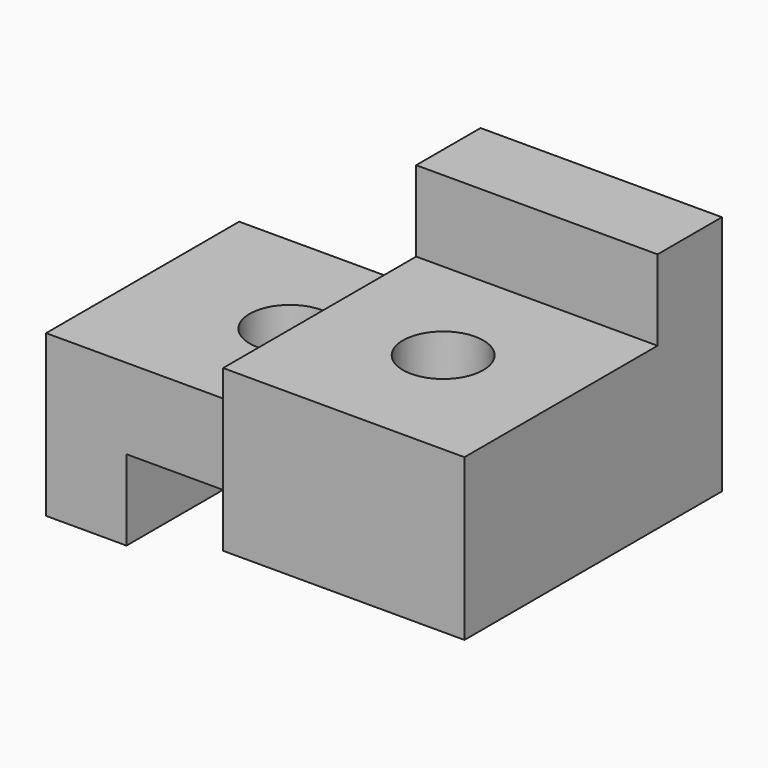
from build123d import *

# Parameters (mm, degrees)
F0_W      = 19.05
F0_H      = 19.05
F1_DEPTH  = 6.35
F2_W      = 19.05
F2_H      = 12.7
F3_DEPTH  = 25.4
F4_W      = 19.05
F4_H      = 6.35
F5_DEPTH  = 19.05
F6_W      = 6.35
F6_H      = 6.35
F7_DEPTH  = 19.05
F8_R      = 3.175
F9_DEPTH  = 12.7
F10_R     = 3.175
F11_DEPTH = 6.35


with BuildPart() as f1:
    # F0 (on Front) → F1 (new body)
    with BuildSketch(Plane.XZ):
        with Locations((9.525, 9.525)):
            Rectangle(F0_W, F0_H)
    extrude(amount=F1_DEPTH)

    # F2 (on Front) → F3 (join)
    with BuildSketch(Plane.XZ):
        with Locations((9.525, 6.35)):
            Rectangle(F2_W, F2_H)
    extrude(amount=F3_DEPTH)

    # F4 (on Front) → F5 (join)
    with BuildSketch(Plane.XZ):
        with Locations((-9.525, 3.175)):
            Rectangle(F4_W, F4_H)
    extrude(amount=F5_DEPTH)

    # F6 (on Front) → F7 (join)
    with BuildSketch(Plane.XZ):
        with Locations((-15.875, -3.175)):
            Rectangle(F6_W, F6_H)
    extrude(amount=F7_DEPTH)

    # F8 (on Top) → F9 (cut)
    with BuildSketch(Plane.XY):
        with Locations((9.523944, -15.594214)):
            Circle(F8_R)
    extrude(amount=F9_DEPTH, mode=Mode.SUBTRACT)

    # F10 (on Top) → F11 (cut)
    with BuildSketch(Plane.XY):
        with Locations((-7.687022, -9.202774)):
            Circle(F10_R)
    extrude(amount=F11_DEPTH, mode=Mode.SUBTRACT)


solid = f1.part
